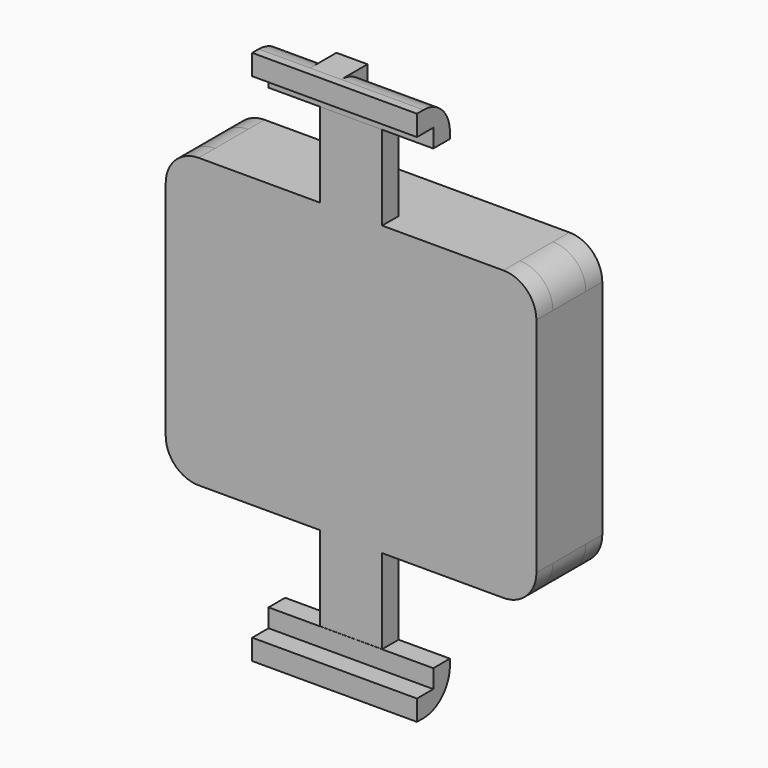
from build123d import *

# Parameters (mm, degrees)
F0_W           = 57.15
F0_H           = 44.45
F0_W_2         = 50.8
F0_H_2         = 38.1
F1_DEPTH       = 6.35
F2_R           = 5.08
F4_DEPTH       = 3.175
F6_DEPTH       = 25.4
F8_DEPTH       = 3.175
F10_DEPTH      = 4.7937016934
F11_DEPTH      = 12.7
F11_DEPTH_BACK = 12.7
F12_R          = 5.08


with BuildPart() as f1:
    # F0 (on Front) → F1 (new body)
    with BuildSketch(Plane.XZ):
        Rectangle(F0_W, F0_H)
        Rectangle(F0_W_2, F0_H_2, mode=Mode.SUBTRACT)
    extrude(amount=F1_DEPTH)

    # F2
    f2_edges = [f1.edges().sort_by_distance(p)[0] for p in [
        (-28.575, -3.175, 22.225),
        (28.575, -3.175, 22.225),
        (28.575, -3.175, -22.225),
        (-28.575, -3.175, -22.225),
    ]]
    fillet(f2_edges, radius=F2_R)

    # F3 (on face) → F4 (join)
    with BuildSketch(Plane(origin=(0, 0, 0), x_dir=(-1, 0, 0), z_dir=(0, 1, 0))):
        with BuildLine():
            Line((23.495, 22.225), (-23.495, 22.225))
            ThreePointArc((-23.495, 22.225), (-27.0871024484, 20.7371024484), (-28.575, 17.145))
            Line((-28.575, 17.145), (-28.575, -17.145))
            ThreePointArc((-28.575, -17.145), (-27.0871024484, -20.7371024484), (-23.495, -22.225))
            Line((-23.495, -22.225), (23.495, -22.225))
            ThreePointArc((23.495, -22.225), (27.0871024484, -20.7371024484), (28.575, -17.145))
            Line((28.575, -17.145), (28.575, 17.145))
            ThreePointArc((28.575, 17.145), (27.0871024484, 20.7371024484), (23.495, 22.225))
        make_face()
    extrude(amount=F4_DEPTH)

    # F5 (on face) → F6 (cut)
    with BuildSketch(Plane(origin=(0, 3.175, 0), x_dir=(-1, 0, 0), z_dir=(0, 1, 0))):
        Polygon((-8.73125, 4.7498), (-8.73125, 19.05), (-11.90625, 19.05), (-11.90625, 4.7498), (-15.875, 4.7498), (-15.875, -9.5377), (-4.7625, -9.5377), (-4.7625, 4.7498), align=None)
        Polygon((15.875, 4.7498), (11.90625, 4.7498), (11.90625, 19.05), (8.73125, 19.05), (8.73125, 4.7498), (4.7625, 4.7498), (4.7625, -9.5377), (15.875, -9.5377), align=None)
    extrude(amount=-F6_DEPTH, mode=Mode.SUBTRACT)

    # F7 (on face) → F8 (join)
    with BuildSketch(Plane.XZ.offset(6.35)):
        with BuildLine():
            Line((-4.7937016934, 22.225), (-23.495, 22.225))
            ThreePointArc((-23.495, 22.225), (-27.0871024484, 20.7371024484), (-28.575, 17.145))
            Line((-28.575, 17.145), (-28.575, -17.145))
            ThreePointArc((-28.575, -17.145), (-27.0871024484, -20.7371024484), (-23.495, -22.225))
            Line((-23.495, -22.225), (-4.7937016934, -22.225))
            Line((-4.7937016934, -22.225), (-4.7937016934, -38.1))
            Line((-4.7937016934, -38.1), (4.7937016934, -38.1))
            Line((4.7937016934, -38.1), (4.7937016934, -22.225))
            Line((4.7937016934, -22.225), (23.495, -22.225))
            ThreePointArc((23.495, -22.225), (27.0871024484, -20.7371024484), (28.575, -17.145))
            Line((28.575, -17.145), (28.575, 17.145))
            ThreePointArc((28.575, 17.145), (27.0871024484, 20.7371024484), (23.495, 22.225))
            Line((23.495, 22.225), (4.7937016934, 22.225))
            Line((4.7937016934, 22.225), (4.7937016934, 38.1))
            Line((4.7937016934, 38.1), (-4.7937016934, 38.1))
            Line((-4.7937016934, 38.1), (-4.7937016934, 22.225))
        make_face()
    extrude(amount=F8_DEPTH)


with BuildPart() as f10:
    # F9 (on Right) → F10 (new body, through all)
    with BuildSketch(Plane.YZ):
        Polygon((-12.7, 38.1), (-9.5510641113, 38.1), (-9.5510641113, 35.2650918067), (-6.35, 35.2650918067), (-6.35, 38.1), (-6.35, 41.275), (-12.7, 41.275), align=None)
    extrude(amount=-F10_DEPTH)


with BuildPart() as f11:
    # F9 (on Right) → F11 (new body, two sides)
    with BuildSketch(Plane.YZ) as f11_sk:
        Polygon((-12.7, 38.1), (-9.5510641113, 38.1), (-9.5510641113, 35.2650918067), (-6.35, 35.2650918067), (-6.35, 38.1), (-6.35, 41.275), (-12.7, 41.275), align=None)
        Polygon((-12.7, -41.275), (-6.35, -41.275), (-6.35, -38.1), (-6.35, -35.2650918067), (-9.5510641113, -35.2650918067), (-9.5510641113, -38.1), (-12.7, -38.1), align=None)
    extrude(amount=F11_DEPTH)
    extrude(f11_sk.sketch, amount=-F11_DEPTH_BACK)

    # F12
    f12_edges = [f11.edges().sort_by_distance(p)[0] for p in [
        (0, -6.35, 41.275),
        (0, -6.35, -41.275),
    ]]
    fillet(f12_edges, radius=F12_R)


solid = Compound([f1.part, f10.part, f11.part])
